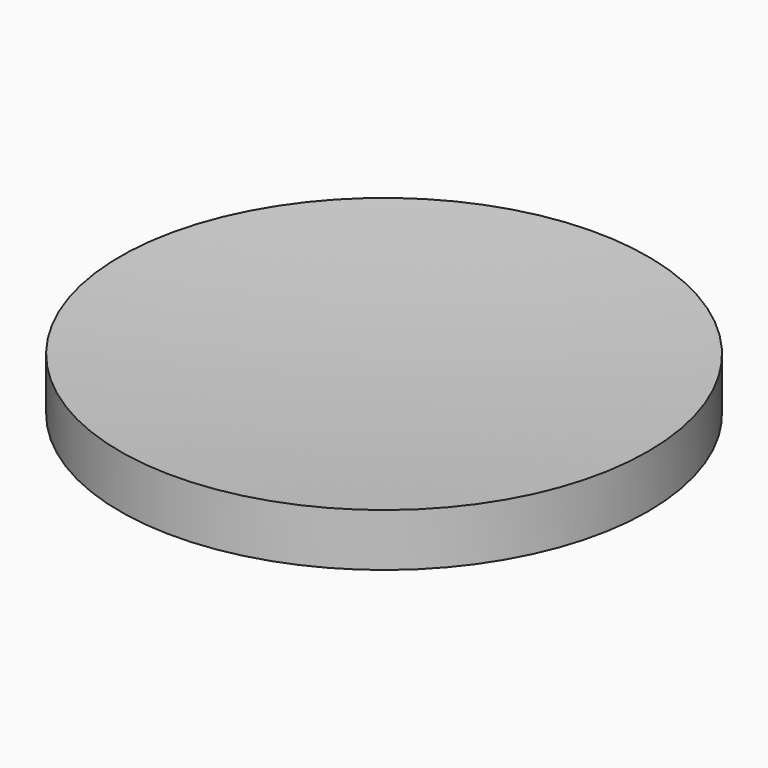
from build123d import *

# Parameters (mm, degrees)
CYLINDER001_R     = 50
CYLINDER001_DEPTH = 10


with BuildPart() as sphere001:
    # Sphere001 → Sphere001 (revolve)
    with BuildSketch(Plane(origin=(0, 0, 607.913037), x_dir=(1, 0, 0), z_dir=(0, -1, 0))):
        with BuildLine():
            ThreePointArc((0, -600), (600, 0), (0, 600))
            Line((0, 600), (0, -600))
        make_face()
    revolve(axis=Axis((0, 0, 607.913037), (0, 0, 1)))


with BuildPart() as concavemirror:
    # Cylinder001 → Cylinder001 (new body)
    with BuildSketch(Plane.XY):
        Circle(CYLINDER001_R)
    extrude(amount=CYLINDER001_DEPTH)

    # Cut001: cut Sphere001
    add(sphere001.part, mode=Mode.SUBTRACT)


solid = concavemirror.part
